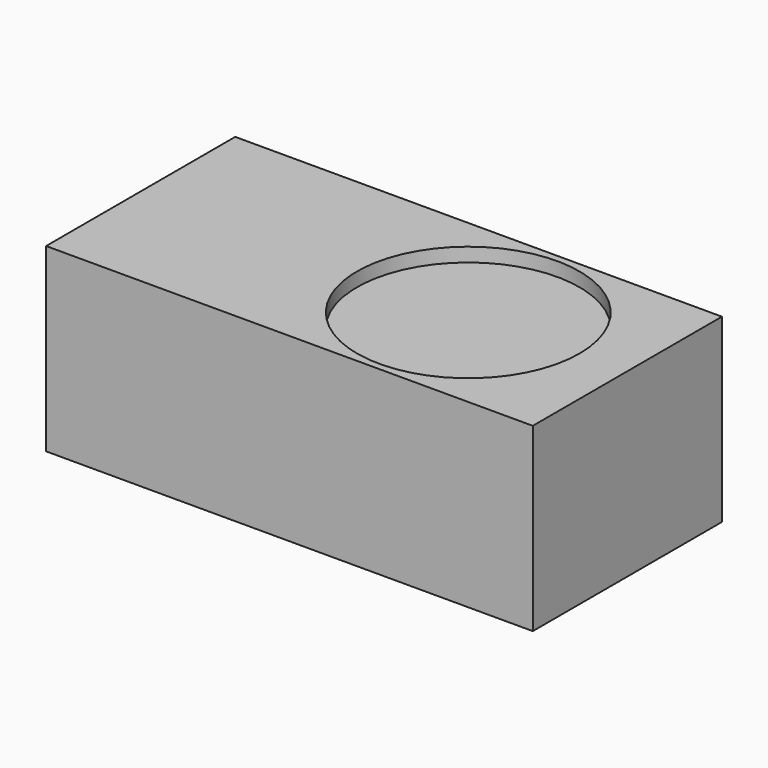
from build123d import *

# Parameters (mm, degrees)
F0_W     = 175
F0_H     = 85
F1_DEPTH = 65
F2_R     = 40
F3_DEPTH = 5
F4_R     = 2.38125
F5_DEPTH = 10


with BuildPart() as f1:
    # F0 (on Top) → F1 (new body)
    with BuildSketch(Plane.XY):
        Rectangle(F0_W, F0_H)
    extrude(amount=F1_DEPTH)

    # F2 (on face) → F3 (cut)
    with BuildSketch(Plane.XY.offset(65)):
        with Locations((30.3, 0)):
            Circle(F2_R)
    extrude(amount=-F3_DEPTH, mode=Mode.SUBTRACT)

    # F4 (on face) → F5 (cut)
    with BuildSketch(Plane(origin=(-87.5, 0, 0), x_dir=(0, -1, 0), z_dir=(-1, 0, 0))):
        with Locations((-33.5, 12.8)):
            Circle(F4_R)
        with Locations((-33.5, 56.8)):
            Circle(F4_R)
        with Locations((37.3, 28.8)):
            Circle(F4_R)
    extrude(amount=-F5_DEPTH, mode=Mode.SUBTRACT)


solid = f1.part
